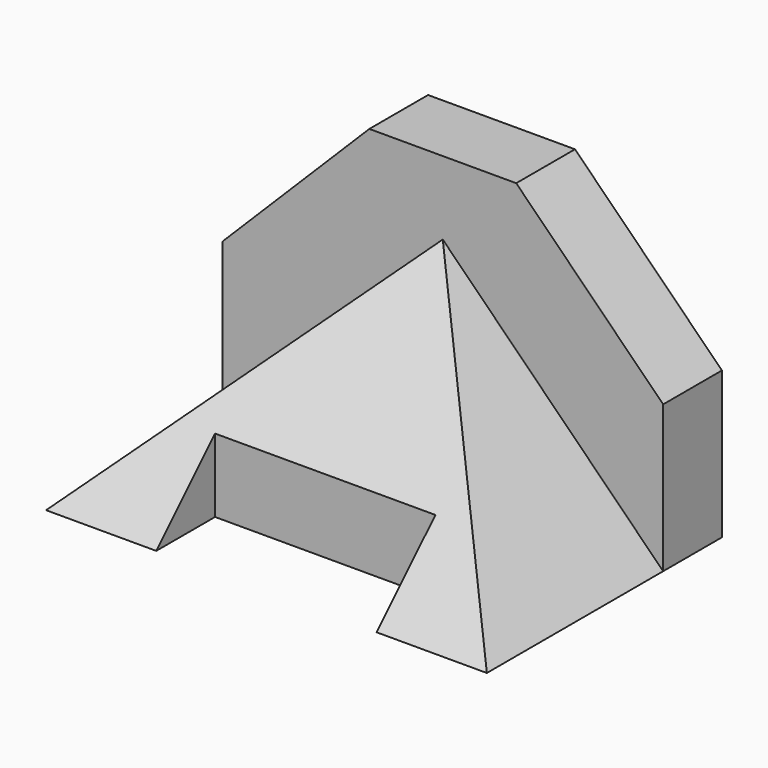
from build123d import *

# Parameters (mm, degrees)
F1_DEPTH = 38.1
F0_W     = 38.1
F0_H     = 12.7
F2_DEPTH = 12.7
F4_DEPTH = 76.201
F5_DEPTH = 25.4


with BuildPart() as f1:
    # F0 (on Front) → F1 (new body)
    with BuildSketch(Plane.XZ):
        Polygon((0, 38.1), (-38.1, 0), (-19.05, 0), (-19.05, 12.7), (19.05, 12.7), (19.05, 0), (38.1, 0), align=None)
    extrude(amount=F1_DEPTH)

    # F0 (on Front) → F2 (join)
    with BuildSketch(Plane.XZ):
        Polygon((-38.1, 25.4), (-38.1, 0), (0, 38.1), (38.1, 0), (38.1, 25.4), (12.7, 50.8), (-12.7, 50.8), align=None)
        Polygon((0, 38.1), (-38.1, 0), (-19.05, 0), (-19.05, 12.7), (19.05, 12.7), (19.05, 0), (38.1, 0), align=None)
        with Locations((0, 6.35)):
            Rectangle(F0_W, F0_H)
    extrude(amount=-F2_DEPTH)

    # F3 (on face) → F4 (cut, through all)
    with BuildSketch(Plane.YZ.offset(38.1)):
        Polygon((-38.1, 38.1), (-38.1, 0), (0, 38.1), align=None)
    extrude(amount=-F4_DEPTH, mode=Mode.SUBTRACT)

    # F0 (on Front) → F5 (join)
    with BuildSketch(Plane.XZ):
        with Locations((0, 6.35)):
            Rectangle(F0_W, F0_H)
    extrude(amount=F5_DEPTH)


solid = f1.part
